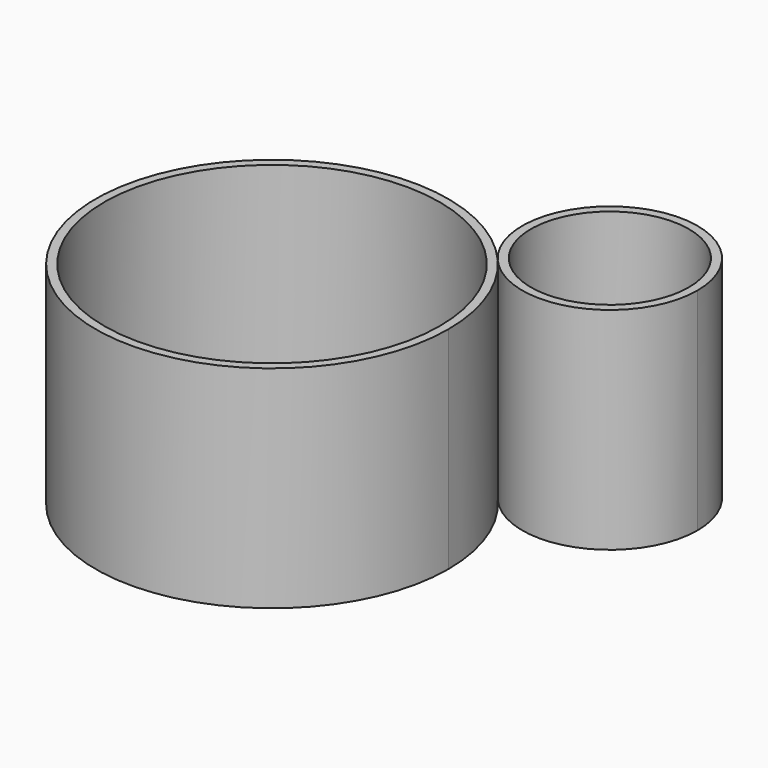
from build123d import *

# Parameters (mm, degrees)
F1_DEPTH = 61.976
F2_T     = -2.54
F2_2_T   = -2.54


with BuildPart() as f1:
    # F0 (on Top) → F1 (new body)
    with BuildSketch(Plane.XY):
        with BuildLine():
            ThreePointArc((-19.4542617316, -16.8124381999), (-107.1481920765, -68.7266891224), (-6.8530802985, -50.6655313075))
            ThreePointArc((-6.8530802985, -50.6655313075), (-10.1055361344, -32.6043734926), (-19.4542617316, -16.8124381999))
        make_face()
    extrude(amount=F1_DEPTH)

    # F2
    f2_openings = [f1.faces().sort_by_distance(p)[0] for p in [
        (-58.626864, -50.665531, 61.976),
    ]]
    offset(amount=F2_T, openings=f2_openings)


with BuildPart() as f1b:
    # F0 (on Top) → F1, piece 2 (new body)
    with BuildSketch(Plane.XY):
        with BuildLine():
            ThreePointArc((25.7123779092, 0), (-8.9697003339, 24.0971129737), (-19.4542617316, -16.8124381999))
            ThreePointArc((-19.4542617316, -16.8124381999), (8.9697003339, -24.0971129737), (25.7123779092, 0))
        make_face()
    extrude(amount=F1_DEPTH)

    # F2#2
    f2_2_openings = [f1b.faces().sort_by_distance(p)[0] for p in [
        (0, 0, 61.976),
    ]]
    offset(amount=F2_2_T, openings=f2_2_openings)


solid = Compound([f1.part, f1b.part])
